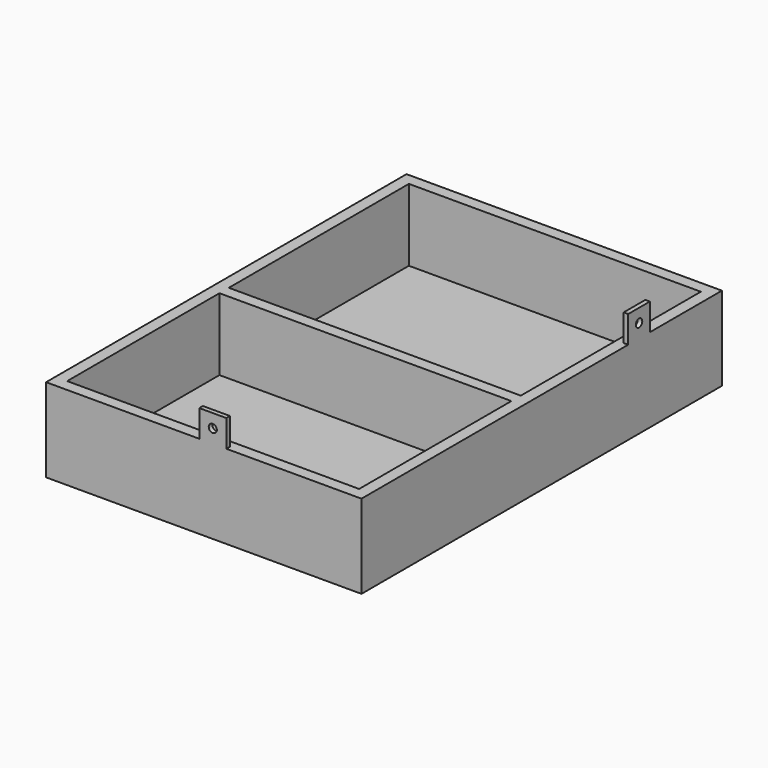
from build123d import *

# Parameters (mm, degrees)
F0_W     = 88.9
F0_H     = 127
F0_W_2   = 82.296
F0_H_2   = 53.654046
F0_H_3   = 63.439954
F1_DEPTH = 20.32
F2_DEPTH = 3.302
F3_W     = 1.27
F3_H     = 7.62
F3_W_2   = 7.62
F3_H_2   = 1.27
F4_DEPTH = 7.62
F5_R     = 1.143
F6_DEPTH = 1.271
F7_R     = 1.143
F8_DEPTH = 1.271


with BuildPart() as f1:
    # F0 (on Top) → F1 (new body)
    with BuildSketch(Plane.XY):
        with Locations((-17.722778, -0.396604)):
            Rectangle(F0_W, F0_H)
        with Locations((-17.722778, -33.767581)):
            Rectangle(F0_W_2, F0_H_2, mode=Mode.SUBTRACT)
        with Locations((-17.722778, 28.081419)):
            Rectangle(F0_W_2, F0_H_3, mode=Mode.SUBTRACT)
    extrude(amount=F1_DEPTH)

    # F0 (on Top) → F2 (join)
    with BuildSketch(Plane.XY):
        with Locations((-17.722778, -0.396604)):
            Rectangle(F0_W, F0_H)
        with Locations((-17.722778, -33.767581)):
            Rectangle(F0_W_2, F0_H_2, mode=Mode.SUBTRACT)
        with Locations((-17.722778, 28.081419)):
            Rectangle(F0_W_2, F0_H_3, mode=Mode.SUBTRACT)
        with Locations((-17.722778, 28.081419)):
            Rectangle(F0_W_2, F0_H_3)
        with Locations((-17.722778, -33.767581)):
            Rectangle(F0_W_2, F0_H_2)
    extrude(amount=-F2_DEPTH)

    # F3 (on face) → F4 (join)
    with BuildSketch(Plane.XY.offset(20.32)):
        with Locations((26.092222, 33.893396)):
            Rectangle(F3_W, F3_H)
        with Locations((-15.182778, -63.261604)):
            Rectangle(F3_W_2, F3_H_2)
    extrude(amount=F4_DEPTH)

    # F5 (on face) → F6 (cut, through all)
    with BuildSketch(Plane(origin=(0, -62.626604, 0), x_dir=(-1, 0, 0), z_dir=(0, 1, 0))):
        with Locations((15.182778, 24.13)):
            Circle(F5_R)
    extrude(amount=-F6_DEPTH, mode=Mode.SUBTRACT)

    # F7 (on face) → F8 (cut, through all)
    with BuildSketch(Plane(origin=(25.457222, 0, 0), x_dir=(0, -1, 0), z_dir=(-1, 0, 0))):
        with Locations((-33.893396, 24.13)):
            Circle(F7_R)
    extrude(amount=-F8_DEPTH, mode=Mode.SUBTRACT)


solid = f1.part
